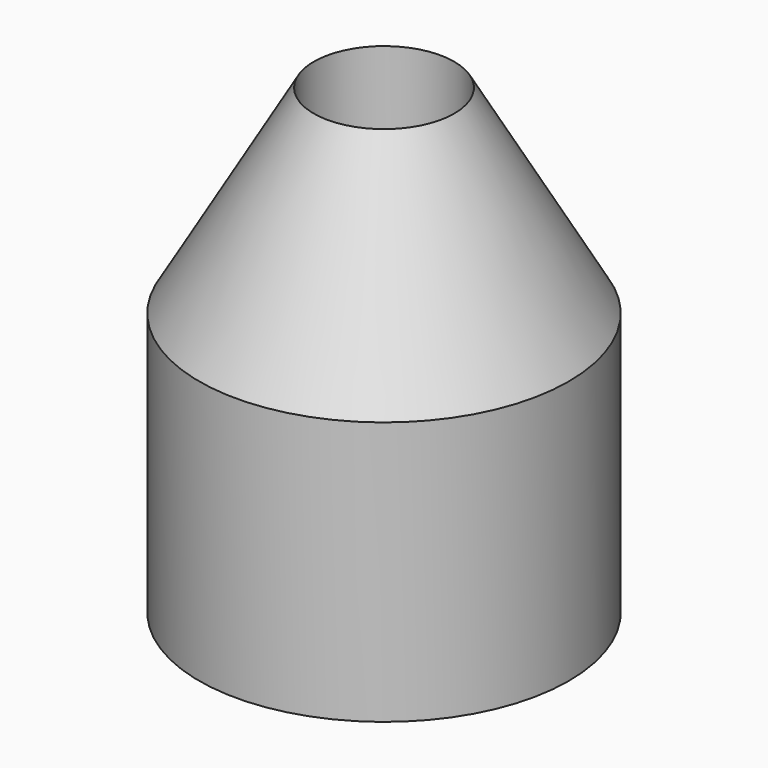
from build123d import *

# Parameters (mm, degrees)
F0_R     = 10
F1_DEPTH = 25
F2_SIZE2 = 6.2
F2_SIZE  = 10.7387150069
F3_R     = 3.8
F4_DEPTH = 40.7
F5_R     = 8
F6_DEPTH = 10.2


with BuildPart() as f1:
    # F0 (on Top) → F1 (new body)
    with BuildSketch(Plane.XY):
        Circle(F0_R)
    extrude(amount=F1_DEPTH)

    # F2
    f2_edges = [f1.edges().sort_by_distance(p)[0] for p in [
        (-10, 0, 25),
    ]]
    f2_side = f1.faces().sort_by_distance((-10, 0, 12.5))[0]
    chamfer(f2_edges, length=F2_SIZE, length2=F2_SIZE2, reference=f2_side)

    # F3 (on face) → F4 (cut)
    with BuildSketch(Plane.XY.offset(25)):
        Circle(F3_R)
    extrude(amount=-F4_DEPTH, mode=Mode.SUBTRACT)

    # F5 (on Top) → F6 (cut)
    with BuildSketch(Plane.XY):
        Circle(F5_R)
    extrude(amount=F6_DEPTH, mode=Mode.SUBTRACT)


solid = f1.part
